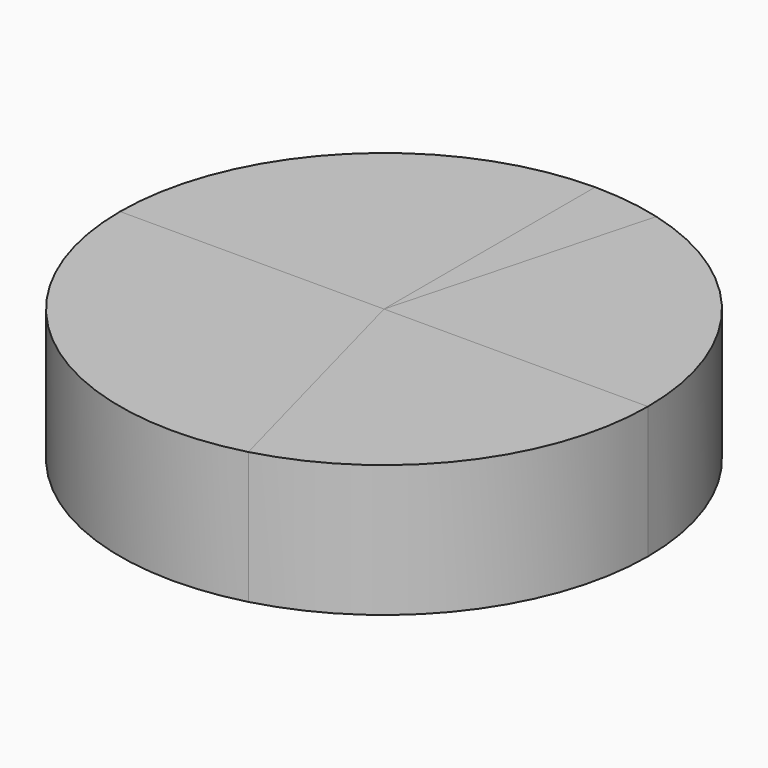
from build123d import *

# Parameters (mm, degrees)
F1_DEPTH = 25
F2_DEPTH = 25
F3_DEPTH = 25


with BuildPart() as f1:
    # F0 (on Top) → F1 (new body)
    with BuildSketch(Plane.XY):
        with BuildLine():
            Line((0, 0), (12.940952, 48.296291))
            ThreePointArc((12.940952, 48.296291), (6.52631, 49.572243), (0, 50))
            Line((0, 50), (0, 0))
        make_face()
        with BuildLine():
            ThreePointArc((12.940952, -48.296291), (39.667667, -30.438071), (50, 0))
            Line((50, 0), (0, 0))
            Line((0, 0), (12.940952, -48.296291))
        make_face()
    extrude(amount=F1_DEPTH)


with BuildPart() as f2:
    # F0 (on Top) → F2 (new body)
    with BuildSketch(Plane.XY):
        with BuildLine():
            Line((0, 0), (50, 0))
            ThreePointArc((50, 0), (39.667667, 30.438071), (12.940952, 48.296291))
            Line((12.940952, 48.296291), (0, 0))
        make_face()
        with BuildLine():
            ThreePointArc((-50, 0), (-30.438071, -39.667667), (12.940952, -48.296291))
            Line((12.940952, -48.296291), (0, 0))
            Line((0, 0), (-50, 0))
        make_face()
    extrude(amount=F2_DEPTH)


with BuildPart() as f3:
    # F0 (on Top) → F3 (new body)
    with BuildSketch(Plane.XY):
        with BuildLine():
            Line((-50, 0), (0, 0))
            Line((0, 0), (0, 50))
            ThreePointArc((0, 50), (-35.355339, 35.355339), (-50, 0))
        make_face()
    extrude(amount=F3_DEPTH)


solid = Compound([f1.part, f2.part, f3.part])
